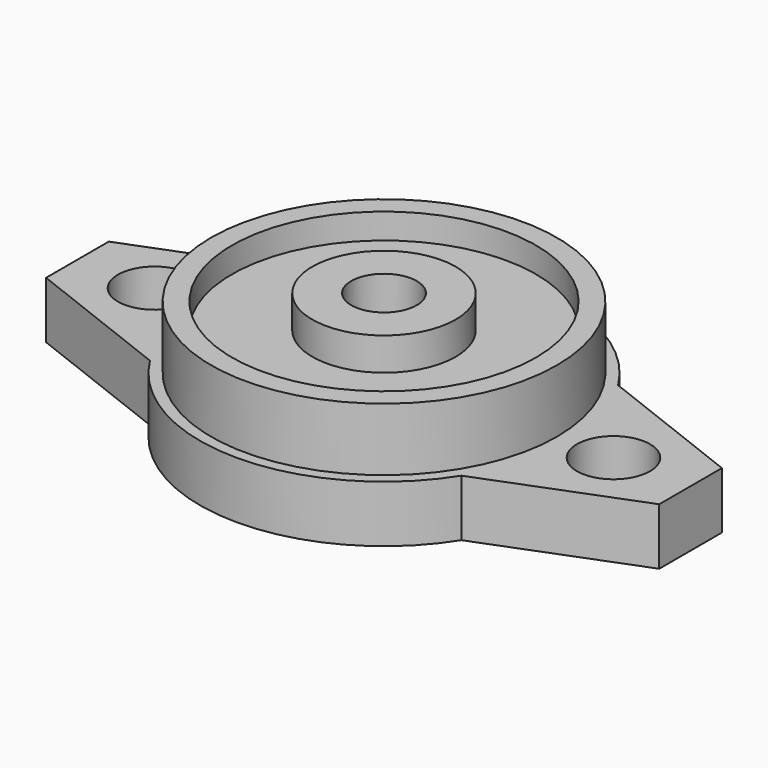
from build123d import *

# Parameters (mm, degrees)
SKETCH_R        = 3.55854
SKETCH_R_2      = 3.1877
PAD_DEPTH       = 5.5245
SKETCH001_R     = 16.81734
PAD001_DEPTH    = 6.1214
SKETCH002_R     = 14.78534
POCKET_DEPTH    = 2.4765
SKETCH003_R     = 6.9723
PAD002_DEPTH    = 3.1877
SKETCH004_R     = 3.1877
POCKET001_DEPTH = 12.3581


with BuildPart() as part:
    # Sketch → Pad (new body)
    with BuildSketch(Plane.XY):
        with BuildLine():
            ThreePointArc((-15.148609, -9.525), (0, -17.8943), (15.148609, -9.525))
            Line((29.8196, -3.81), (15.148609, -9.525))
            Line((29.8196, 3.81), (29.8196, -3.81))
            Line((29.8196, 3.81), (15.148609, 9.525))
            ThreePointArc((15.148609, 9.525), (0, 17.8943), (-15.148609, 9.525))
            Line((-29.8196, 3.81), (-15.148609, 9.525))
            Line((-29.8196, 3.81), (-29.8196, -3.81))
            Line((-29.8196, -3.81), (-15.148609, -9.525))
        make_face()
        with Locations((22.32025, 0)):
            Circle(SKETCH_R, mode=Mode.SUBTRACT)
        with Locations((-22.32025, 0)):
            Circle(SKETCH_R, mode=Mode.SUBTRACT)
        Circle(SKETCH_R_2, mode=Mode.SUBTRACT)
    extrude(amount=PAD_DEPTH)

    # Sketch001 → Pad001 (new body)
    with BuildSketch(Plane.XY.offset(5.5245)):
        Circle(SKETCH001_R)
    extrude(amount=PAD001_DEPTH)

    # Sketch002 → Pocket (cut)
    with BuildSketch(Plane.XY.offset(11.6459)):
        Circle(SKETCH002_R)
    extrude(amount=-POCKET_DEPTH, mode=Mode.SUBTRACT)

    # Sketch003 → Pad002 (new body)
    with BuildSketch(Plane.XY.offset(9.1694)):
        Circle(SKETCH003_R)
    extrude(amount=PAD002_DEPTH)

    # Sketch004 → Pocket001 (cut, through all)
    with BuildSketch(Plane.XY.offset(12.3571)):
        Circle(SKETCH004_R)
    extrude(amount=-POCKET001_DEPTH, mode=Mode.SUBTRACT)


solid = part.part
